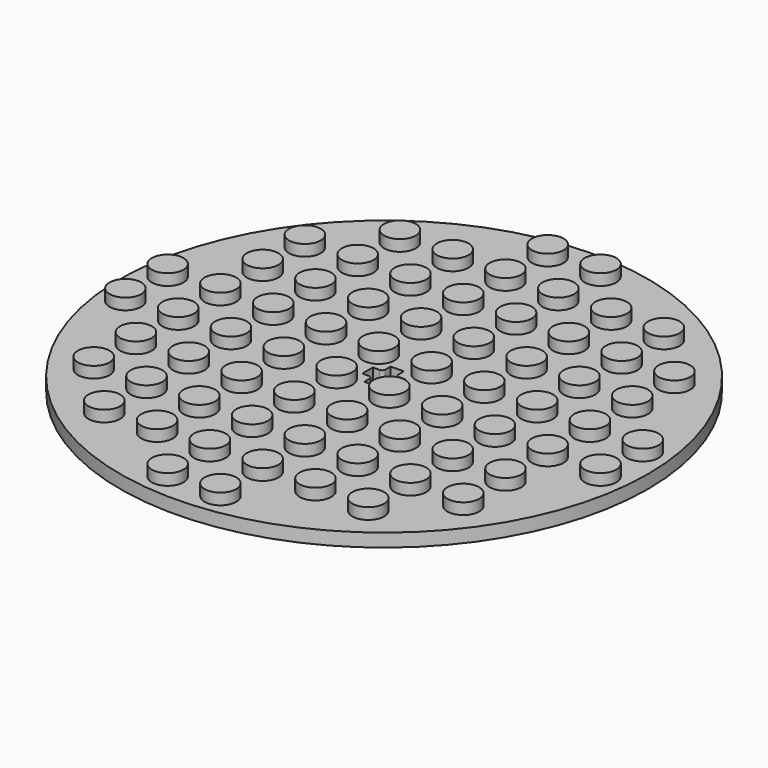
from build123d import *

# Parameters (mm, degrees)
F0_R     = 2.4
F1_DEPTH = 3.7
F0_R_2   = 40
F2_DEPTH = 2
F3_R     = 0.5


with BuildPart() as f1:
    # F0 (on Top) → F1 (new body)
    with BuildSketch(Plane.XY):
        with Locations((8, 16)):
            Circle(F0_R)
        with Locations((16, 8)):
            Circle(F0_R)
        with Locations((24, 8)):
            Circle(F0_R)
        with Locations((16, 16)):
            Circle(F0_R)
        with Locations((24, 16)):
            Circle(F0_R)
        with Locations((32, 0)):
            Circle(F0_R)
        with Locations((32, 8)):
            Circle(F0_R)
        with Locations((32, 16)):
            Circle(F0_R)
        with Locations((32, 24)):
            Circle(F0_R)
        with Locations((24, 24)):
            Circle(F0_R)
        with Locations((16, 24)):
            Circle(F0_R)
        with Locations((8, 24)):
            Circle(F0_R)
        with Locations((0, 32)):
            Circle(F0_R)
        with Locations((8, 32)):
            Circle(F0_R)
        with Locations((16, 32)):
            Circle(F0_R)
        with Locations((24, 32)):
            Circle(F0_R)
        with Locations((32, 32)):
            Circle(F0_R)
        with Locations((32, 40)):
            Circle(F0_R)
        with Locations((24, 40)):
            Circle(F0_R)
        with Locations((16, 40)):
            Circle(F0_R)
        with Locations((8, 40)):
            Circle(F0_R)
        with Locations((0, 40)):
            Circle(F0_R)
        with Locations((8, 48)):
            Circle(F0_R)
        with Locations((16, 48)):
            Circle(F0_R)
        with Locations((32, 48)):
            Circle(F0_R)
        with Locations((32, 56)):
            Circle(F0_R)
        with Locations((24, 56)):
            Circle(F0_R)
        with Locations((16, 56)):
            Circle(F0_R)
        with Locations((8, 56)):
            Circle(F0_R)
        with Locations((24, 48)):
            Circle(F0_R)
        with Locations((16, 64)):
            Circle(F0_R)
        with Locations((24, 64)):
            Circle(F0_R)
        with Locations((32, 64)):
            Circle(F0_R)
        with Locations((32, 72)):
            Circle(F0_R)
        with Locations((40, 72)):
            Circle(F0_R)
        with Locations((40, 64)):
            Circle(F0_R)
        with Locations((40, 56)):
            Circle(F0_R)
        with Locations((40, 48)):
            Circle(F0_R)
        with Locations((40, 40)):
            Circle(F0_R)
        with Locations((40, 32)):
            Circle(F0_R)
        with Locations((40, 24)):
            Circle(F0_R)
        with Locations((40, 16)):
            Circle(F0_R)
        with Locations((40, 8)):
            Circle(F0_R)
        with Locations((40, 0)):
            Circle(F0_R)
        with Locations((48, 8)):
            Circle(F0_R)
        with Locations((48, 16)):
            Circle(F0_R)
        with Locations((48, 24)):
            Circle(F0_R)
        with Locations((48, 32)):
            Circle(F0_R)
        with Locations((48, 40)):
            Circle(F0_R)
        with Locations((48, 48)):
            Circle(F0_R)
        with Locations((48, 56)):
            Circle(F0_R)
        with Locations((48, 64)):
            Circle(F0_R)
        with Locations((56, 64)):
            Circle(F0_R)
        with Locations((56, 56)):
            Circle(F0_R)
        with Locations((56, 48)):
            Circle(F0_R)
        with Locations((56, 40)):
            Circle(F0_R)
        with Locations((56, 32)):
            Circle(F0_R)
        with Locations((56, 24)):
            Circle(F0_R)
        with Locations((56, 16)):
            Circle(F0_R)
        with Locations((56, 8)):
            Circle(F0_R)
        with Locations((64, 16)):
            Circle(F0_R)
        with Locations((64, 24)):
            Circle(F0_R)
        with Locations((64, 32)):
            Circle(F0_R)
        with Locations((64, 40)):
            Circle(F0_R)
        with Locations((64, 48)):
            Circle(F0_R)
        with Locations((64, 56)):
            Circle(F0_R)
        with Locations((72, 40)):
            Circle(F0_R)
        with Locations((72, 32)):
            Circle(F0_R)
    extrude(amount=F1_DEPTH)

    # F0 (on Top) → F2 (join)
    with BuildSketch(Plane.XY):
        with Locations((36, 36)):
            Circle(F0_R_2)
        with Locations((32, 0)):
            Circle(F0_R, mode=Mode.SUBTRACT)
        with Locations((16, 8)):
            Circle(F0_R, mode=Mode.SUBTRACT)
        with Locations((24, 8)):
            Circle(F0_R, mode=Mode.SUBTRACT)
        with Locations((32, 8)):
            Circle(F0_R, mode=Mode.SUBTRACT)
        with Locations((8, 16)):
            Circle(F0_R, mode=Mode.SUBTRACT)
        with Locations((8, 24)):
            Circle(F0_R, mode=Mode.SUBTRACT)
        with Locations((0, 32)):
            Circle(F0_R, mode=Mode.SUBTRACT)
        with Locations((8, 32)):
            Circle(F0_R, mode=Mode.SUBTRACT)
        with Locations((16, 16)):
            Circle(F0_R, mode=Mode.SUBTRACT)
        with Locations((24, 16)):
            Circle(F0_R, mode=Mode.SUBTRACT)
        with Locations((16, 24)):
            Circle(F0_R, mode=Mode.SUBTRACT)
        with Locations((24, 24)):
            Circle(F0_R, mode=Mode.SUBTRACT)
        with Locations((32, 16)):
            Circle(F0_R, mode=Mode.SUBTRACT)
        with Locations((32, 24)):
            Circle(F0_R, mode=Mode.SUBTRACT)
        with Locations((16, 32)):
            Circle(F0_R, mode=Mode.SUBTRACT)
        with Locations((24, 32)):
            Circle(F0_R, mode=Mode.SUBTRACT)
        with Locations((32, 32)):
            Circle(F0_R, mode=Mode.SUBTRACT)
        with Locations((40, 0)):
            Circle(F0_R, mode=Mode.SUBTRACT)
        with Locations((40, 8)):
            Circle(F0_R, mode=Mode.SUBTRACT)
        with Locations((48, 8)):
            Circle(F0_R, mode=Mode.SUBTRACT)
        with Locations((56, 8)):
            Circle(F0_R, mode=Mode.SUBTRACT)
        with Locations((40, 16)):
            Circle(F0_R, mode=Mode.SUBTRACT)
        with Locations((40, 24)):
            Circle(F0_R, mode=Mode.SUBTRACT)
        with Locations((48, 16)):
            Circle(F0_R, mode=Mode.SUBTRACT)
        with Locations((48, 24)):
            Circle(F0_R, mode=Mode.SUBTRACT)
        with Locations((40, 32)):
            Circle(F0_R, mode=Mode.SUBTRACT)
        with Locations((48, 32)):
            Circle(F0_R, mode=Mode.SUBTRACT)
        with Locations((56, 16)):
            Circle(F0_R, mode=Mode.SUBTRACT)
        with Locations((64, 16)):
            Circle(F0_R, mode=Mode.SUBTRACT)
        with Locations((56, 24)):
            Circle(F0_R, mode=Mode.SUBTRACT)
        with Locations((64, 24)):
            Circle(F0_R, mode=Mode.SUBTRACT)
        with Locations((56, 32)):
            Circle(F0_R, mode=Mode.SUBTRACT)
        with Locations((64, 32)):
            Circle(F0_R, mode=Mode.SUBTRACT)
        with Locations((72, 32)):
            Circle(F0_R, mode=Mode.SUBTRACT)
        with Locations((0, 40)):
            Circle(F0_R, mode=Mode.SUBTRACT)
        with Locations((8, 40)):
            Circle(F0_R, mode=Mode.SUBTRACT)
        with Locations((8, 48)):
            Circle(F0_R, mode=Mode.SUBTRACT)
        with Locations((16, 40)):
            Circle(F0_R, mode=Mode.SUBTRACT)
        with Locations((24, 40)):
            Circle(F0_R, mode=Mode.SUBTRACT)
        with Locations((32, 40)):
            Circle(F0_R, mode=Mode.SUBTRACT)
        with Locations((16, 48)):
            Circle(F0_R, mode=Mode.SUBTRACT)
        with Locations((24, 48)):
            Circle(F0_R, mode=Mode.SUBTRACT)
        with Locations((32, 48)):
            Circle(F0_R, mode=Mode.SUBTRACT)
        with Locations((8, 56)):
            Circle(F0_R, mode=Mode.SUBTRACT)
        with Locations((16, 56)):
            Circle(F0_R, mode=Mode.SUBTRACT)
        with Locations((24, 56)):
            Circle(F0_R, mode=Mode.SUBTRACT)
        with Locations((16, 64)):
            Circle(F0_R, mode=Mode.SUBTRACT)
        with Locations((24, 64)):
            Circle(F0_R, mode=Mode.SUBTRACT)
        with Locations((32, 56)):
            Circle(F0_R, mode=Mode.SUBTRACT)
        with Locations((32, 64)):
            Circle(F0_R, mode=Mode.SUBTRACT)
        with Locations((32, 72)):
            Circle(F0_R, mode=Mode.SUBTRACT)
        Polygon((37, 33.5), (35, 33.5), (35, 35), (33.5, 35), (33.5, 37), (35, 37), (35, 38.5), (37, 38.5), (37, 37), (38.5, 37), (38.5, 35), (37, 35), align=None, mode=Mode.SUBTRACT)
        with Locations((40, 40)):
            Circle(F0_R, mode=Mode.SUBTRACT)
        with Locations((48, 40)):
            Circle(F0_R, mode=Mode.SUBTRACT)
        with Locations((40, 48)):
            Circle(F0_R, mode=Mode.SUBTRACT)
        with Locations((48, 48)):
            Circle(F0_R, mode=Mode.SUBTRACT)
        with Locations((56, 40)):
            Circle(F0_R, mode=Mode.SUBTRACT)
        with Locations((64, 40)):
            Circle(F0_R, mode=Mode.SUBTRACT)
        with Locations((72, 40)):
            Circle(F0_R, mode=Mode.SUBTRACT)
        with Locations((56, 48)):
            Circle(F0_R, mode=Mode.SUBTRACT)
        with Locations((64, 48)):
            Circle(F0_R, mode=Mode.SUBTRACT)
        with Locations((40, 56)):
            Circle(F0_R, mode=Mode.SUBTRACT)
        with Locations((40, 64)):
            Circle(F0_R, mode=Mode.SUBTRACT)
        with Locations((48, 56)):
            Circle(F0_R, mode=Mode.SUBTRACT)
        with Locations((48, 64)):
            Circle(F0_R, mode=Mode.SUBTRACT)
        with Locations((40, 72)):
            Circle(F0_R, mode=Mode.SUBTRACT)
        with Locations((56, 56)):
            Circle(F0_R, mode=Mode.SUBTRACT)
        with Locations((64, 56)):
            Circle(F0_R, mode=Mode.SUBTRACT)
        with Locations((56, 64)):
            Circle(F0_R, mode=Mode.SUBTRACT)
    extrude(amount=F2_DEPTH)

    # F3
    f3_edges = [f1.edges().sort_by_distance(p)[0] for p in [
        (37, 35, 1),
        (37, 37, 1),
        (35, 37, 1),
        (35, 35, 1),
    ]]
    fillet(f3_edges, radius=F3_R)


solid = f1.part
